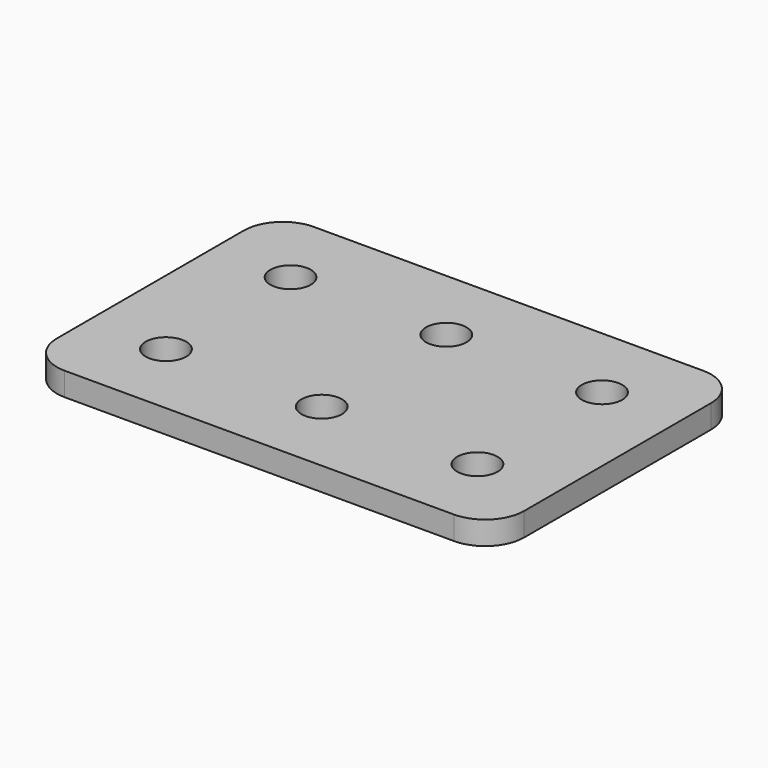
from build123d import *

# Parameters (mm, degrees)
F0_R     = 2.6
F1_DEPTH = 3


with BuildPart() as f1:
    # F0 (on Top) → F1 (new body)
    with BuildSketch(Plane.XY):
        with BuildLine():
            Line((-25, -20), (25, -20))
            ThreePointArc((25, -20), (28.535534, -18.535534), (30, -15))
            Line((30, -15), (30, 15))
            ThreePointArc((30, 15), (28.535534, 18.535534), (25, 20))
            Line((25, 20), (-25, 20))
            ThreePointArc((-25, 20), (-28.535534, 18.535534), (-30, 15))
            Line((-30, 15), (-30, -15))
            ThreePointArc((-30, -15), (-28.535534, -18.535534), (-25, -20))
        make_face()
        with Locations((-20, -10)):
            Circle(F0_R, mode=Mode.SUBTRACT)
        with Locations((0, -10)):
            Circle(F0_R, mode=Mode.SUBTRACT)
        with Locations((20, -10)):
            Circle(F0_R, mode=Mode.SUBTRACT)
        with Locations((-20, 10)):
            Circle(F0_R, mode=Mode.SUBTRACT)
        with Locations((0, 10)):
            Circle(F0_R, mode=Mode.SUBTRACT)
        with Locations((20, 10)):
            Circle(F0_R, mode=Mode.SUBTRACT)
    extrude(amount=F1_DEPTH)


solid = f1.part
